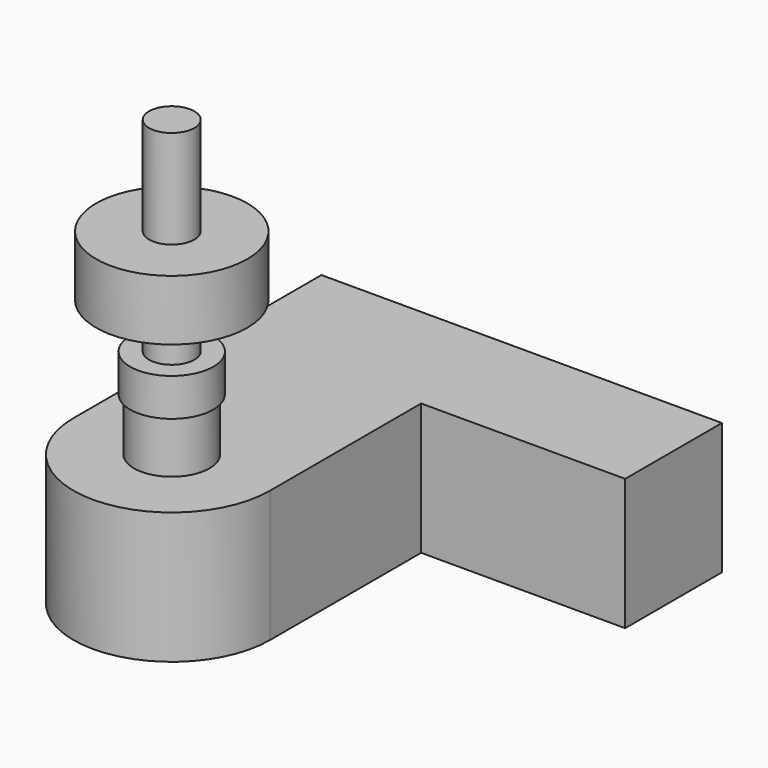
from build123d import *

# Parameters (mm, degrees)
CYLINDER_R        = 1.5
CYLINDER_DEPTH    = 16
CYLINDER001_R     = 2.75
CYLINDER001_DEPTH = 2.5
CYLINDER003_R     = 6.5
CYLINDER003_DEPTH = 8.7
BOX001_W          = 25
BOX001_H          = 8
BOX001_DEPTH      = 8.7
BOX_W             = 13
BOX_H             = 20.5
BOX_DEPTH         = 8.7
CYLINDER002_R     = 2.5
CYLINDER002_DEPTH = 3.5
CYLINDER004_R     = 2.5
CYLINDER004_DEPTH = 3.5
CYLINDER005_R     = 5
CYLINDER005_DEPTH = 4


with BuildPart() as cylinder:
    # Cylinder → Cylinder (new body)
    with BuildSketch(Plane.XY.offset(3.5)):
        Circle(CYLINDER_R)
    extrude(amount=CYLINDER_DEPTH)


with BuildPart() as cylinder001:
    # Cylinder001 → Cylinder001 (new body)
    with BuildSketch(Plane.XY.offset(3.5)):
        Circle(CYLINDER001_R)
    extrude(amount=CYLINDER001_DEPTH)


with BuildPart() as cylinder003:
    # Cylinder003 → Cylinder003 (new body)
    with BuildSketch(Plane.XY.offset(-8.7)):
        Circle(CYLINDER003_R)
    extrude(amount=CYLINDER003_DEPTH)


with BuildPart() as cube001:
    # Box001 → Box001 (new body)
    with BuildSketch(Plane(origin=(-5, 12.5, -8.7), x_dir=(1, 0, 0), z_dir=(0, 0, 1))):
        with Locations((12.5, 4)):
            Rectangle(BOX001_W, BOX001_H)
    extrude(amount=BOX001_DEPTH)


with BuildPart() as cube:
    # Box → Box (new body)
    with BuildSketch(Plane(origin=(-6.5, 0, -8.7), x_dir=(1, 0, 0), z_dir=(0, 0, 1))):
        with Locations((6.5, 10.25)):
            Rectangle(BOX_W, BOX_H)
    extrude(amount=BOX_DEPTH)


with BuildPart() as motor:
    # Cylinder002 → Cylinder002 (new body)
    with BuildSketch(Plane.XY):
        Circle(CYLINDER002_R)
    extrude(amount=CYLINDER002_DEPTH)

    # Fusion: union Cylinder003, Cube001, Cube
    add(cylinder003.part)
    add(cube001.part)
    add(cube.part)


with BuildPart() as cylinder004:
    # Cylinder004 → Cylinder004 (new body)
    with BuildSketch(Plane.XY):
        Circle(CYLINDER004_R)
    extrude(amount=CYLINDER004_DEPTH)


with BuildPart() as bearing:
    # Cylinder005 → Cylinder005 (new body)
    with BuildSketch(Plane.XY.offset(9)):
        Circle(CYLINDER005_R)
    extrude(amount=CYLINDER005_DEPTH)


solid = Compound([cylinder.part, cylinder001.part, motor.part, cylinder004.part, bearing.part])
